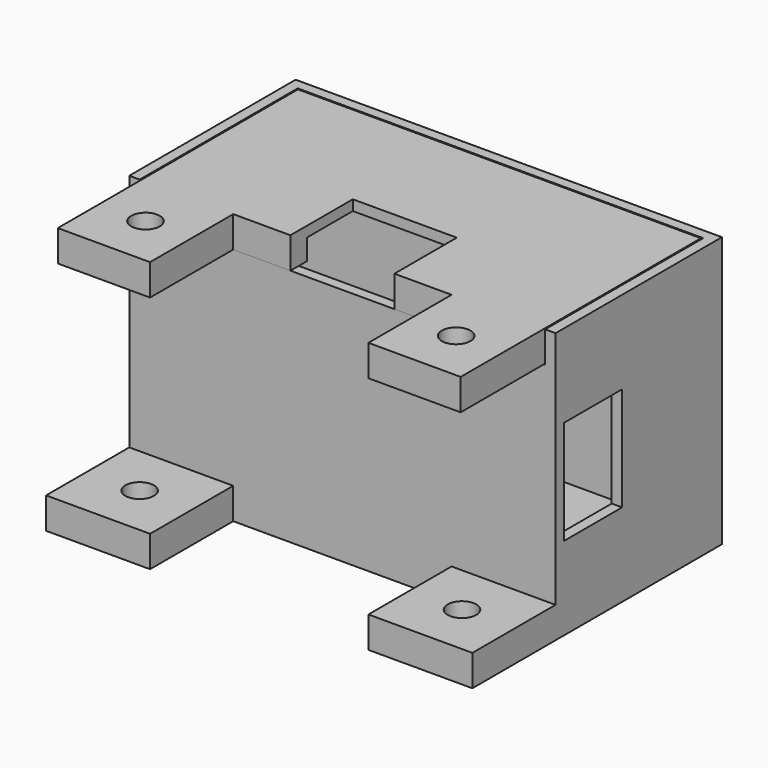
from build123d import *

# Parameters (mm, degrees)
SKETCH_W          = 82
SKETCH_H          = 40
PAD_DEPTH         = 52
THICKNESS_T       = -2
SKETCH001_W       = 20
SKETCH001_H       = 20
SKETCH001_R       = 2.75
PAD001_DEPTH      = 6
SKETCH002_W       = 14
SKETCH002_H       = 20
POCKET_DEPTH      = 41.001
POCKET_DEPTH_BACK = 41.001
SKETCH003_W       = 78
SKETCH003_H       = 10
POCKET001_DEPTH   = 40.001
SKETCH004_R       = 2.75
PAD002_DEPTH      = 6
SKETCH005_W       = 72
SKETCH005_H       = 32
POCKET002_DEPTH   = 4


with BuildPart() as box:
    # Sketch → Pad (new body)
    with BuildSketch(Plane.XY):
        Rectangle(SKETCH_W, SKETCH_H)
    extrude(amount=PAD_DEPTH)

    # Thickness
    thickness_openings = [box.faces().sort_by_distance(p)[0] for p in [
        (0, 0, 52),
    ]]
    offset(amount=THICKNESS_T, openings=thickness_openings, kind=Kind.INTERSECTION)

    # Sketch001 → Pad001 (join)
    with BuildSketch(Plane.XY):
        with Locations((-31, -30)):
            Rectangle(SKETCH001_W, SKETCH001_H)
        with Locations((-31, -30)):
            Circle(SKETCH001_R, mode=Mode.SUBTRACT)
        with Locations((31, -30)):
            Rectangle(SKETCH001_W, SKETCH001_H)
        with Locations((31, -30)):
            Circle(SKETCH001_R, mode=Mode.SUBTRACT)
    extrude(amount=PAD001_DEPTH)

    # Sketch002 → Pocket (cut, two sides)
    with BuildSketch(Plane.YZ) as pocket_sk:
        with Locations((-11, 26)):
            Rectangle(SKETCH002_W, SKETCH002_H)
    extrude(amount=-POCKET_DEPTH, mode=Mode.SUBTRACT)
    extrude(pocket_sk.sketch, amount=POCKET_DEPTH_BACK, mode=Mode.SUBTRACT)

    # Sketch003 → Pocket001 (cut, through all)
    with BuildSketch(Plane.XZ):
        with Locations((0, 51)):
            Rectangle(SKETCH003_W, SKETCH003_H)
    extrude(amount=POCKET001_DEPTH, mode=Mode.SUBTRACT)


with BuildPart() as lid:
    # Sketch004 → Pad002 (new body)
    with BuildSketch(Plane.XY):
        Polygon((-38.75, 17.75), (38.75, 17.75), (38.75, -17.75), (38.75, -40), (21, -40), (21, -20), (10, -20), (10, -5), (-10, -5), (-10, -20), (-21, -20), (-21, -40), (-38.75, -40), (-38.75, -17.75), align=None)
        with Locations((-29.875, -30)):
            Circle(SKETCH004_R, mode=Mode.SUBTRACT)
        with Locations((29.875, -30)):
            Circle(SKETCH004_R, mode=Mode.SUBTRACT)
    extrude(amount=PAD002_DEPTH)

    # Sketch005 → Pocket002 (cut)
    with BuildSketch(Plane.XY):
        Rectangle(SKETCH005_W, SKETCH005_H)
    extrude(amount=POCKET002_DEPTH, mode=Mode.SUBTRACT)


with BuildPart() as lid_1:
    # Body001 placement: moved
    add(lid.part.moved(Location((0, 0, 46))))


solid = Compound([box.part, lid_1.part])
